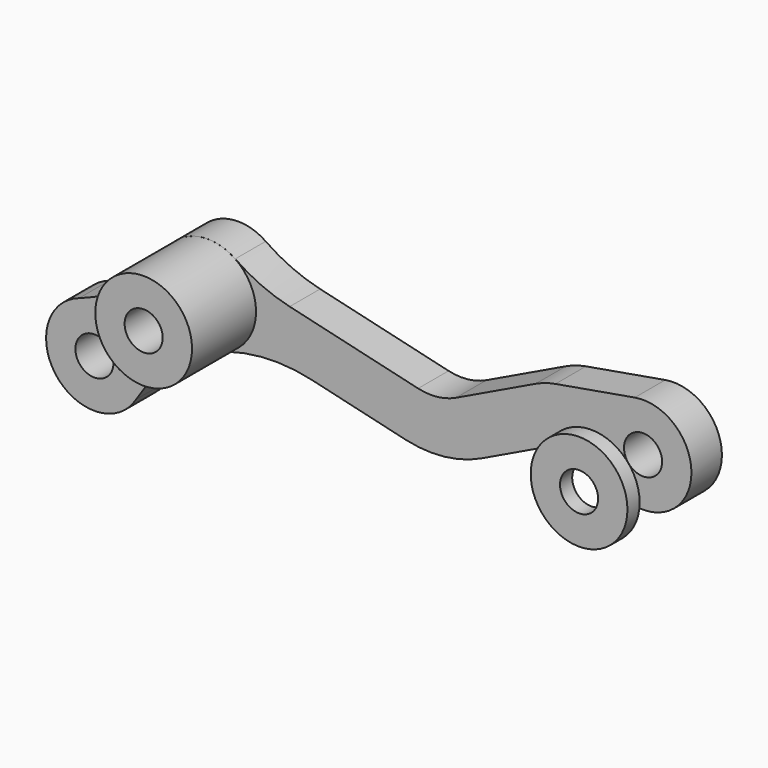
from build123d import *

# Parameters (mm, degrees)
F0_R     = 5
F3_DEPTH = 10
F2_R     = 12.7
F2_R_2   = 5
F4_DEPTH = 21
F6_R     = 12.7
F6_R_2   = 5
F7_DEPTH = 4


with BuildPart() as f3:
    # F0 (on Front) → F3 (new body)
    with BuildSketch(Plane.XZ):
        with BuildLine():
            Line((136.8938610891, 32.6169262603), (155.2197164243, 26.8800057594))
            ThreePointArc((155.2197164243, 26.8800057594), (171.6865566669, 38.1672488884), (156.838361431, 51.5122772985))
            Line((156.838361431, 51.5122772985), (136.0138882192, 47.8914976242))
            ThreePointArc((136.0138882192, 47.8914976242), (133.3445556323, 47.2356566345), (130.7903562075, 46.2200143936))
            Line((130.7903562075, 46.2200143936), (109.889352132, 36.1947521246))
            ThreePointArc((109.889352132, 36.1947521246), (105.0162276309, 34.806510773), (99.958925919, 35.1199686623))
            Line((99.958925919, 35.1199686623), (66.2424883289, 43.0719368512))
            ThreePointArc((66.2424883289, 43.0719368512), (58.7976545466, 45.5828340028), (51.9507338074, 49.436381841))
            ThreePointArc((51.9507338074, 49.436381841), (42.0175563053, 51.4104711518), (33.7989885192, 45.4926854644))
            ThreePointArc((33.7989885192, 45.4926854644), (24.0281343313, 34.2165250918), (10.948803108, 27.0365195859))
            ThreePointArc((10.948803108, 27.0365195859), (5.1202108146, 7.0200397462), (25.914918613, 8.5073463305))
            ThreePointArc((25.914918613, 8.5073463305), (45.7374582991, 25.813590453), (71.9570676896, 28.043220163))
            Line((71.9570676896, 28.043220163), (96.6726081531, 22.214099248))
            ThreePointArc((96.6726081531, 22.214099248), (106.8179730144, 21.5852768369), (116.5938631817, 24.3702036278))
            Line((116.5938631817, 24.3702036278), (133.2377030535, 32.3534976015))
            ThreePointArc((133.2377030535, 32.3534976015), (135.0407707514, 32.8323470476), (136.8938610891, 32.6169262603))
        make_face()
        with Locations((15, 15)):
            Circle(F0_R, mode=Mode.SUBTRACT)
        with Locations((44.7138882192, 39)):
            Circle(F0_R, mode=Mode.SUBTRACT)
        with Locations((159.0138882192, 39)):
            Circle(F0_R, mode=Mode.SUBTRACT)
        with BuildLine():
            Line((136.8938610891, 32.6169262603), (155.2197164243, 26.8800057594))
            ThreePointArc((155.2197164243, 26.8800057594), (171.6865566669, 38.1672488884), (156.838361431, 51.5122772985))
            Line((156.838361431, 51.5122772985), (136.0138882192, 47.8914976242))
            ThreePointArc((136.0138882192, 47.8914976242), (133.3445556323, 47.2356566345), (130.7903562075, 46.2200143936))
            Line((130.7903562075, 46.2200143936), (109.889352132, 36.1947521246))
            ThreePointArc((109.889352132, 36.1947521246), (105.0162276309, 34.806510773), (99.958925919, 35.1199686623))
            Line((99.958925919, 35.1199686623), (66.2424883289, 43.0719368512))
            ThreePointArc((66.2424883289, 43.0719368512), (58.7976545466, 45.5828340028), (51.9507338074, 49.436381841))
            ThreePointArc((51.9507338074, 49.436381841), (42.0175563053, 51.4104711518), (33.7989885192, 45.4926854644))
            ThreePointArc((33.7989885192, 45.4926854644), (24.0281343313, 34.2165250918), (10.948803108, 27.0365195859))
            ThreePointArc((10.948803108, 27.0365195859), (5.1202108146, 7.0200397462), (25.914918613, 8.5073463305))
            ThreePointArc((25.914918613, 8.5073463305), (45.7374582991, 25.813590453), (71.9570676896, 28.043220163))
            Line((71.9570676896, 28.043220163), (96.6726081531, 22.214099248))
            ThreePointArc((96.6726081531, 22.214099248), (106.8179730144, 21.5852768369), (116.5938631817, 24.3702036278))
            Line((116.5938631817, 24.3702036278), (133.2377030535, 32.3534976015))
            ThreePointArc((133.2377030535, 32.3534976015), (135.0407707514, 32.8323470476), (136.8938610891, 32.6169262603))
        make_face()
        with Locations((15, 15)):
            Circle(F0_R, mode=Mode.SUBTRACT)
        with Locations((44.7138882192, 39)):
            Circle(F0_R, mode=Mode.SUBTRACT)
        with Locations((159.0138882192, 39)):
            Circle(F0_R, mode=Mode.SUBTRACT)
    extrude(amount=F3_DEPTH)


with BuildPart() as f4:
    # F2 (on offset) → F4 (new body)
    with BuildSketch(Plane.XZ.offset(10)):
        with Locations((44.7138882192, 39)):
            Circle(F2_R)
        with Locations((44.7138882192, 39)):
            Circle(F2_R_2, mode=Mode.SUBTRACT)
    extrude(amount=F4_DEPTH)


with BuildPart() as f7:
    # F6 (on offset) → F7 (new body)
    with BuildSketch(Plane.XZ.offset(31)):
        with Locations((159.0138882192, 39)):
            Circle(F6_R)
        with Locations((159.0138882192, 39)):
            Circle(F6_R_2, mode=Mode.SUBTRACT)
    extrude(amount=-F7_DEPTH)


solid = Compound([f3.part, f4.part, f7.part])
